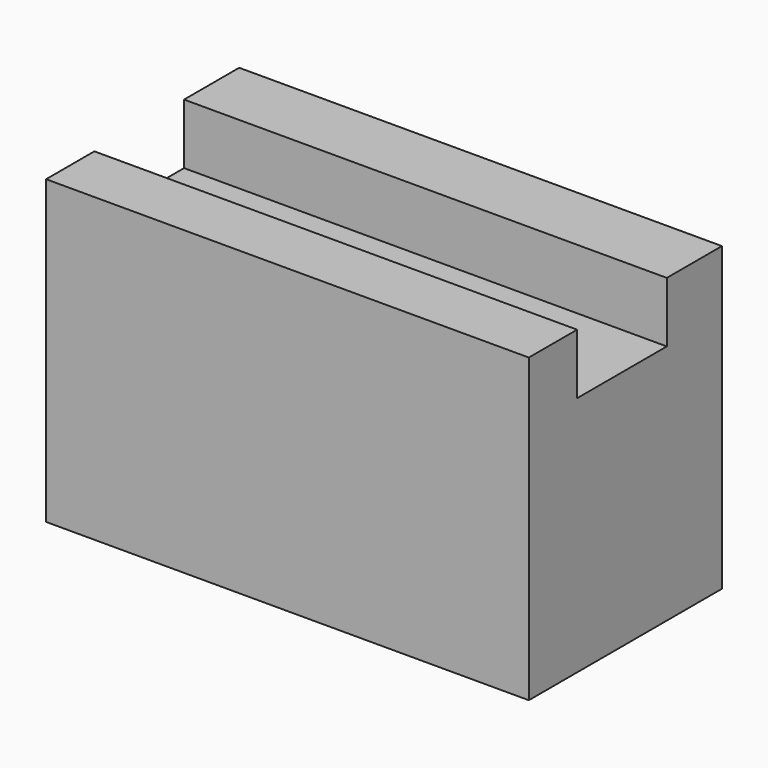
from build123d import *

# Parameters (mm, degrees)
F1_DEPTH = 25.4
F2_DEPTH = 25.4


with BuildPart() as f1:
    # F0 (on Right) → F1 (new body)
    with BuildSketch(Plane.YZ):
        Polygon((-25.4, 31.75), (-25.4, 0), (0, 0), (0, 31.75), (-7.248613, 31.75), (-7.248613, 25.4), (-19.05, 25.4), (-19.05, 31.75), align=None)
    extrude(amount=F1_DEPTH)

    # F1_face (on face) → F2 (join)
    with BuildSketch(Plane(origin=(25.4, -12.653971, 14.573963), x_dir=(0, 1, 0), z_dir=(1, 0, 0))):
        Polygon((-12.746029, 17.176037), (-12.746029, -14.573963), (12.653971, -14.573963), (12.653971, 17.176037), (5.405358, 17.176037), (5.405358, 10.826037), (-6.396029, 10.826037), (-6.396029, 17.176037), align=None)
    extrude(amount=F2_DEPTH)


solid = f1.part
